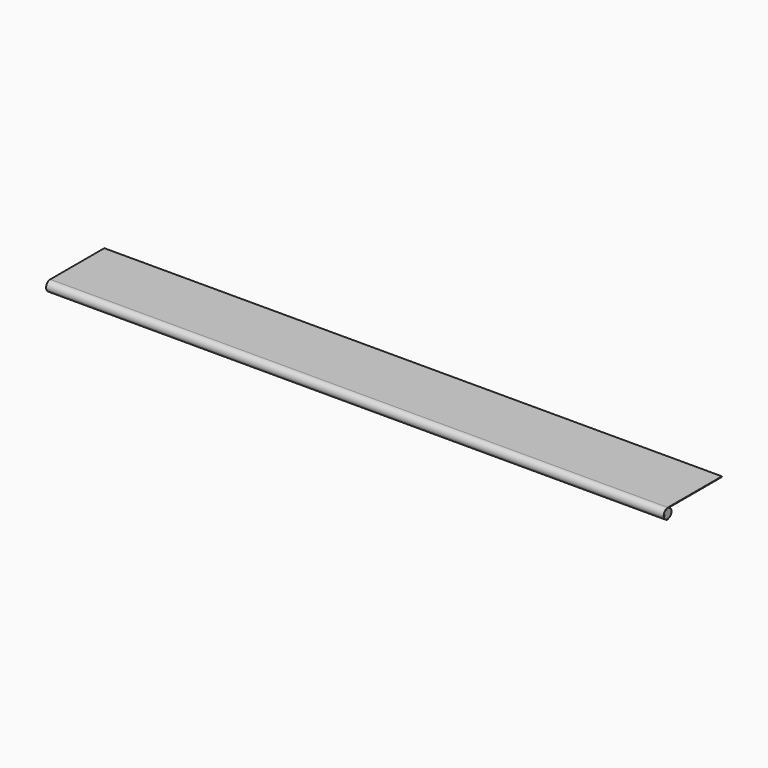
from build123d import *

# Parameters (mm, degrees)
F0_R     = 11.75
F1_DEPTH = 800


with BuildPart() as f1:
    # F0 (on Right) → F1 (new body, symmetric)
    with BuildSketch(Plane.YZ):
        with BuildLine():
            Line((0, 13.5), (-175, 13.5))
            ThreePointArc((-175, 13.5), (-188.5, 0), (-175, -13.5))
            Line((-175, -13.5), (-175, -12))
            ThreePointArc((-175, -12), (-187, 0), (-175, 12))
            Line((-175, 12), (0, 12))
            Line((0, 12), (0, 13.5))
        make_face()
        with Locations((-175, 0)):
            Circle(F0_R)
    extrude(amount=F1_DEPTH, both=True)


solid = f1.part
